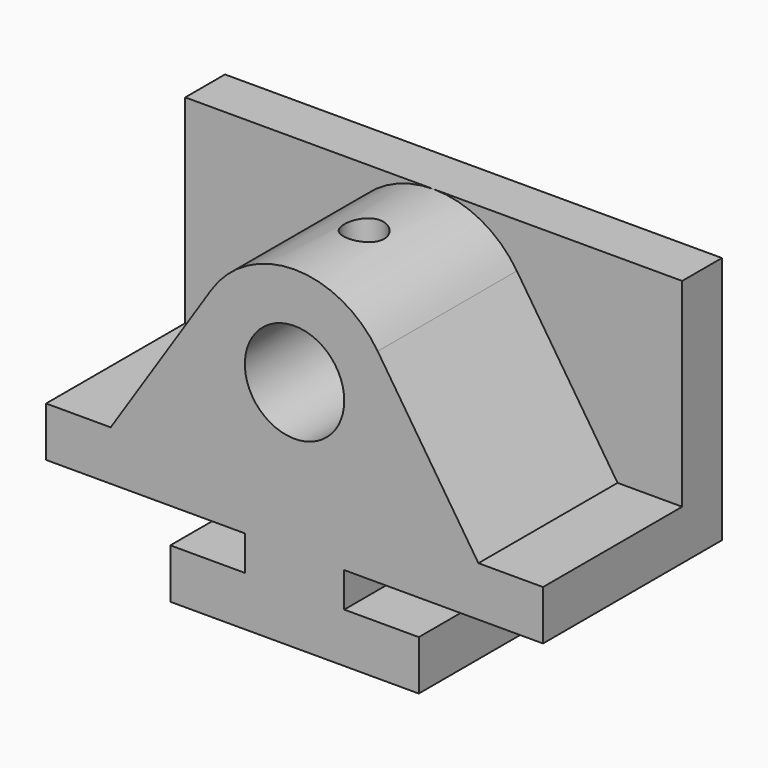
from build123d import *

# Parameters (mm, degrees)
F1_DEPTH = 44.45
F2_R     = 12.7
F3_DEPTH = 45.72
F4_W     = 12.7
F4_H     = 63.5
F5_DEPTH = 127
F6_R     = 5.08
F7_DEPTH = 11.43


with BuildPart() as f1:
    # F0 (on Front) → F1 (new body)
    with BuildSketch(Plane.XZ):
        with BuildLine():
            Line((0, 12.7), (0, 0))
            Line((0, 0), (63.5, 0))
            Line((63.5, 0), (63.5, 12.7))
            Line((63.5, 12.7), (44.45, 12.7))
            Line((44.45, 12.7), (44.45, 21.59))
            Line((44.45, 21.59), (95.25, 21.59))
            Line((95.25, 21.59), (95.25, 34.29))
            Line((95.25, 34.29), (78.74, 34.29))
            Line((78.74, 34.29), (53.000424, 73.603284))
            ThreePointArc((53.000424, 73.603284), (31.75, 85.09), (10.499576, 73.603284))
            Line((10.499576, 73.603284), (-15.24, 34.29))
            Line((-15.24, 34.29), (-31.75, 34.29))
            Line((-31.75, 34.29), (-31.75, 21.59))
            Line((-31.75, 21.59), (19.05, 21.59))
            Line((19.05, 21.59), (19.05, 12.7))
            Line((19.05, 12.7), (0, 12.7))
        make_face()
    extrude(amount=F1_DEPTH)

    # F2 (on face) → F3 (cut)
    with BuildSketch(Plane.XZ.offset(44.45)):
        with Locations((31.75, 59.69)):
            Circle(F2_R)
    extrude(amount=-F3_DEPTH, mode=Mode.SUBTRACT)

    # F4 (on face) → F5 (join)
    with BuildSketch(Plane.YZ.offset(95.25)):
        with Locations((6.35, 53.34)):
            Rectangle(F4_W, F4_H)
    extrude(amount=-F5_DEPTH)

    # F6 (on face) → F7 (cut)
    with BuildSketch(Plane.XY.offset(85.09)):
        with Locations((31.75, -22.225)):
            Circle(F6_R)
    extrude(amount=-F7_DEPTH, mode=Mode.SUBTRACT)


solid = f1.part
